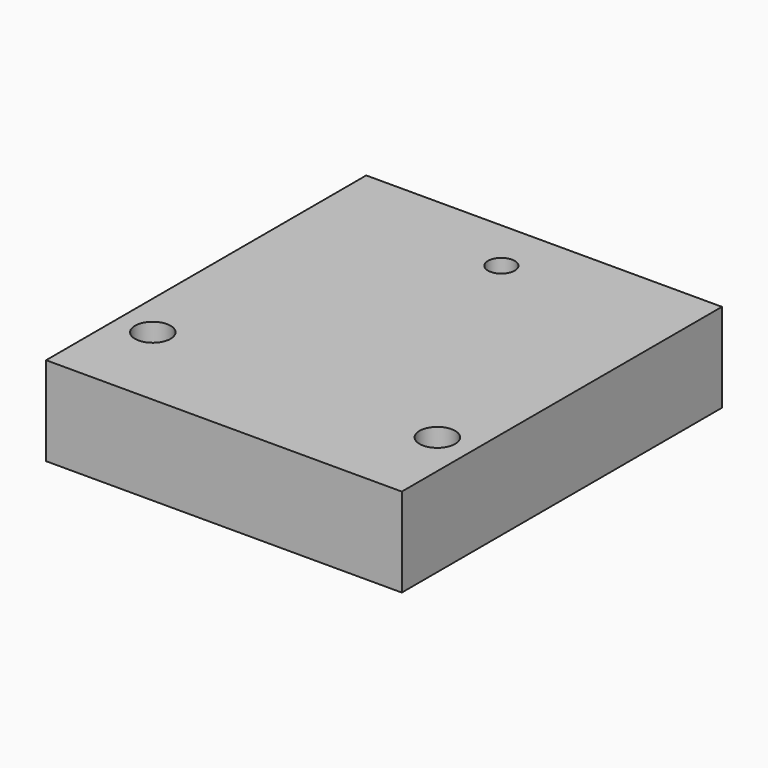
from build123d import *

# Parameters (mm, degrees)
F0_W     = 40
F0_H     = 45
F1_DEPTH = 10
F2_R     = 1.5
F3_DEPTH = 25
F4_R     = 2
F5_DEPTH = 25


with BuildPart() as f1:
    # F0 (on Top) → F1 (new body)
    with BuildSketch(Plane.XY):
        Rectangle(F0_W, F0_H)
    extrude(amount=F1_DEPTH)

    # F2 (on face) → F3 (cut)
    with BuildSketch(Plane.XY.offset(10)):
        with Locations((0, 16.5)):
            Circle(F2_R)
    extrude(amount=-F3_DEPTH, mode=Mode.SUBTRACT)

    # F4 (on face) → F5 (cut)
    with BuildSketch(Plane.XY.offset(10)):
        with Locations((16, -12.5)):
            Circle(F4_R)
        with Locations((-16, -12.5)):
            Circle(F4_R)
    extrude(amount=-F5_DEPTH, mode=Mode.SUBTRACT)


solid = f1.part
